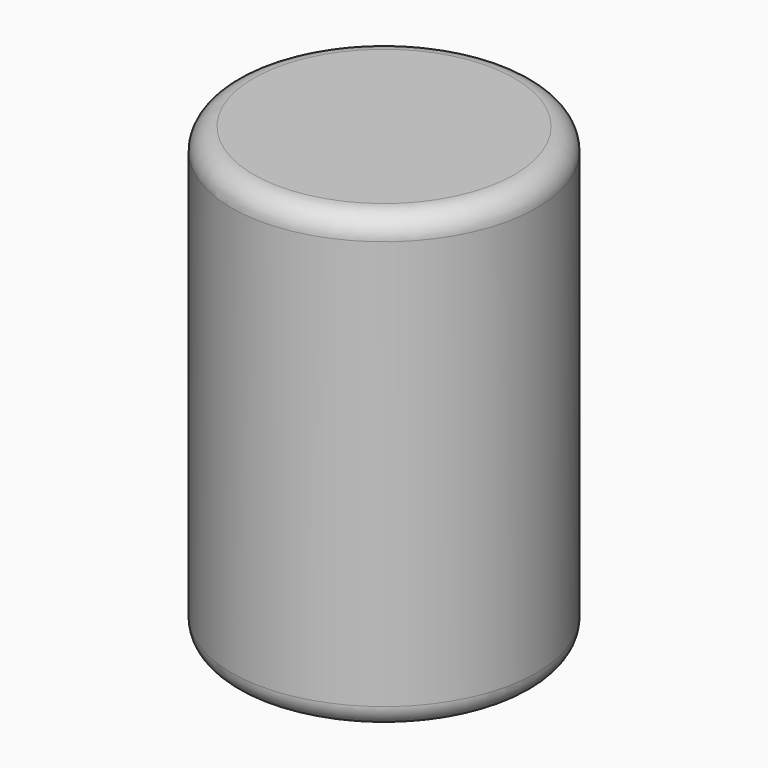
from build123d import *

# Parameters (mm, degrees)
F0_W = 17.5
F0_H = 52
F2_R = 2.54


with BuildPart() as f1:
    # F0 (on Front) → F1 (revolve)
    with BuildSketch(Plane.XZ):
        with Locations((8.75, 26)):
            Rectangle(F0_W, F0_H)
    revolve(axis=Axis((0, 0, 26), (0, 0, 1)))

    # F2
    f2_edges = [f1.edges().sort_by_distance(p)[0] for p in [
        (-17.5, 0, 52),
        (-17.5, 0, 0),
    ]]
    fillet(f2_edges, radius=F2_R)


solid = f1.part
